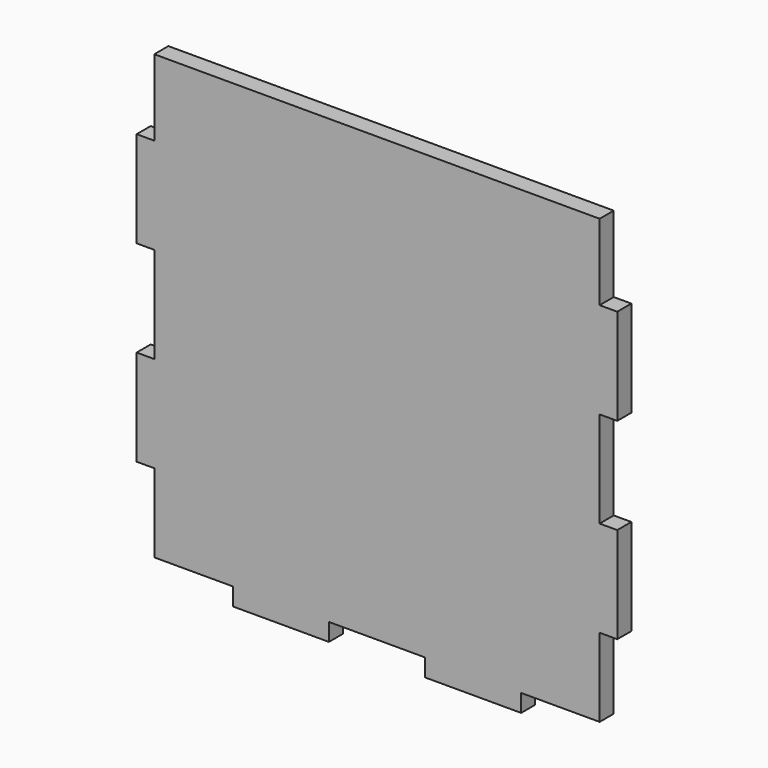
from build123d import *

# Parameters (mm, degrees)
F0_W     = 152.4
F0_H     = 146.05
F1_DEPTH = 5.588
F2_W     = 5.588
F2_H     = 24.13
F2_H_2   = 30.48
F2_H_3   = 24.892
F2_W_2   = 24.892
F2_H_4   = 5.588
F2_W_3   = 30.48
F3_DEPTH = 5.589


with BuildPart() as f1:
    # F0 (on Front) → F1 (new body)
    with BuildSketch(Plane.XZ):
        with Locations((0, -1.799165)):
            Rectangle(F0_W, F0_H)
    extrude(amount=F1_DEPTH)

    # F2 (on face) → F3 (cut, through all)
    with BuildSketch(Plane.XZ.offset(5.588)):
        with Locations((-73.406, 59.160835)):
            Rectangle(F2_W, F2_H)
        with Locations((-73.406, 1.375835)):
            Rectangle(F2_W, F2_H_2)
        with Locations((-73.406, -56.790165)):
            Rectangle(F2_W, F2_H_3)
        with Locations((-58.166, -72.030165)):
            Rectangle(F2_W_2, F2_H_4)
        with Locations((-73.406, -72.030165)):
            Rectangle(F2_W, F2_H_4)
        with Locations((0, -72.030165)):
            Rectangle(F2_W_3, F2_H_4)
        with Locations((58.166, -72.030165)):
            Rectangle(F2_W_2, F2_H_4)
        with Locations((73.406, -72.030165)):
            Rectangle(F2_W, F2_H_4)
        with Locations((73.406, -56.790165)):
            Rectangle(F2_W, F2_H_3)
        with Locations((73.406, 1.375835)):
            Rectangle(F2_W, F2_H_2)
        with Locations((73.406, 59.160835)):
            Rectangle(F2_W, F2_H)
    extrude(amount=-F3_DEPTH, mode=Mode.SUBTRACT)


solid = f1.part
